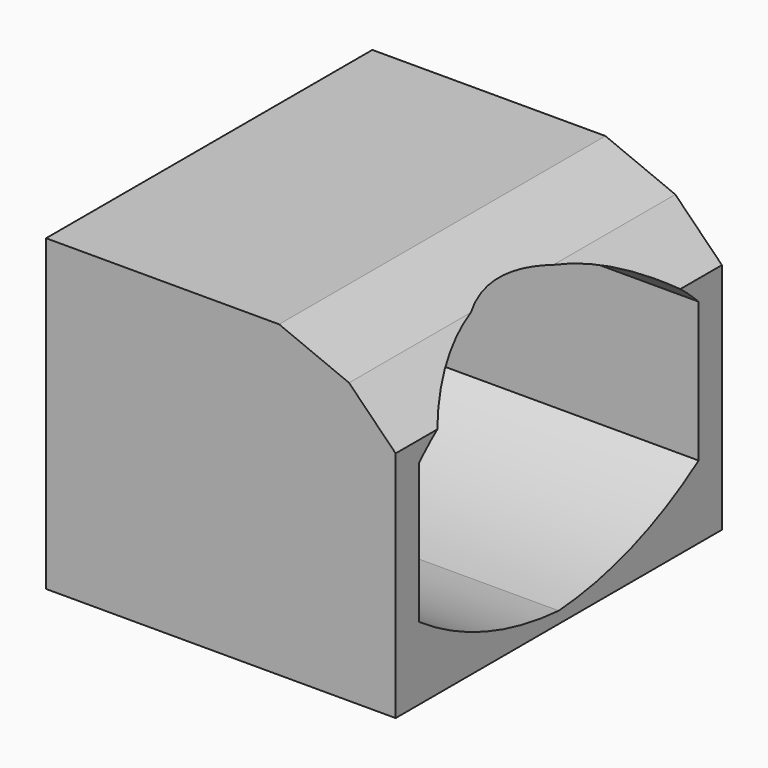
from build123d import *

# Parameters (mm, degrees)
F1_DEPTH = 88.9
F3_DEPTH = 76.201


with BuildPart() as f1:
    # F0 (on Front) → F1 (new body)
    with BuildSketch(Plane.XZ):
        Polygon((0, 61.038002), (0, 0), (76.2, 0), (76.2, 50.8), (66.04, 61.038002), align=None)
        Polygon((0, 67.31), (0, 61.038002), (66.04, 61.038002), (50.8, 67.31), align=None)
    extrude(amount=F1_DEPTH)

    # F2 (on face) → F3 (cut, through all)
    with BuildSketch(Plane(origin=(0, 0, 0), x_dir=(0, -1, 0), z_dir=(-1, 0, 0))):
        with BuildLine():
            ThreePointArc((6.35, 15.875), (24.500933, 6.638738), (44.45, 2.54))
            ThreePointArc((44.45, 2.54), (64.399067, 6.638738), (82.55, 15.875))
            Line((82.55, 15.875), (82.55, 33.655))
            Line((82.55, 33.655), (82.55, 46.355))
            ThreePointArc((82.55, 46.355), (65.0875, 58.1025), (44.45, 62.23))
            ThreePointArc((44.45, 62.23), (23.8125, 58.1025), (6.35, 46.355))
            Line((6.35, 46.355), (6.35, 33.655))
            Line((6.35, 33.655), (6.35, 15.875))
        make_face()
    extrude(amount=-F3_DEPTH, mode=Mode.SUBTRACT)


solid = f1.part
